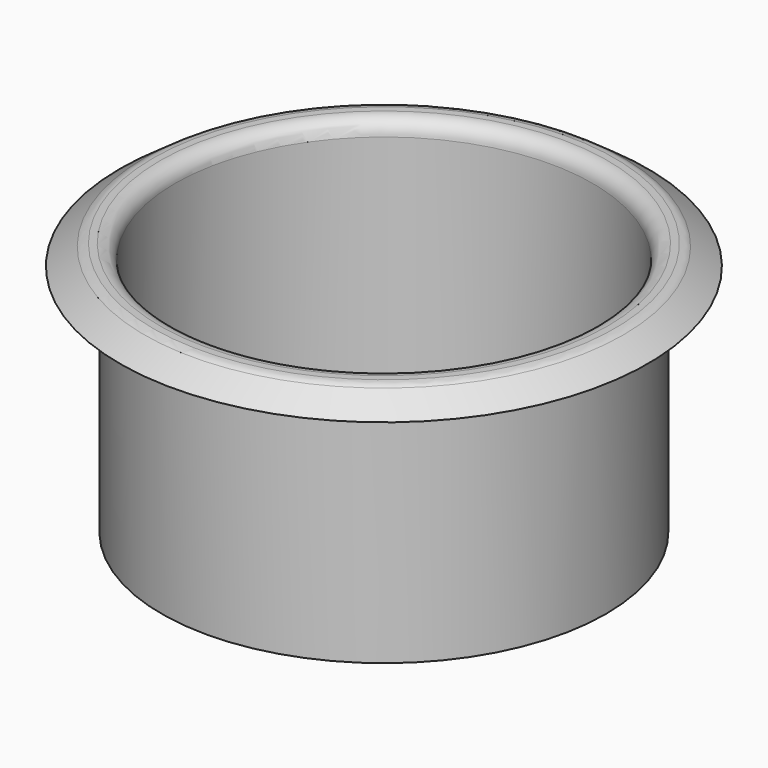
from build123d import *

# Parameters (mm, degrees)
F0_W = 1.6
F0_H = 28
F2_R = 1.8


with BuildPart() as f1:
    # F0 (on Front) → F1 (revolve)
    with BuildSketch(Plane.XZ):
        Polygon((-31.599971, 22.402998), (-26.6, 22.419994), (-25, 22.419994), (-25, 24.819994), (-28.2, 24.819994), align=None)
        with Locations((-25.8, 8.419994)):
            Rectangle(F0_W, F0_H)
    revolve(axis=Axis((0, 0, -8.381579), (0, 0, -1)))

    # F2
    f2_edges = [f1.edges().sort_by_distance(p)[0] for p in [
        (25, 0, 24.819994),
        (28.2, 0, 24.819994),
    ]]
    fillet(f2_edges, radius=F2_R)


solid = f1.part
